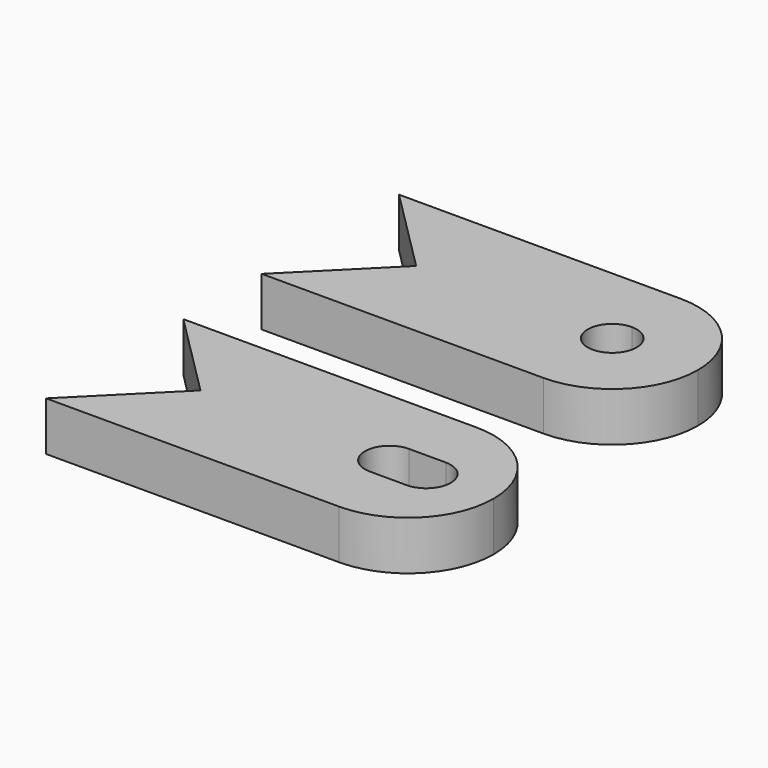
from build123d import *

# Parameters (mm, degrees)
F1_DEPTH = 25.4


with BuildPart() as f1:
    # F0 (on Top) → F1 (new body)
    with BuildSketch(Plane.XY):
        Polygon((-44.45, 88.9), (0, 44.45), (0, 88.9), align=None)
        Polygon((-44.45, 0), (0, 0), (0, 44.45), align=None)
        with BuildLine():
            Line((0, 44.45), (0, 0))
            Line((0, 0), (101.6, 0))
            ThreePointArc((101.6, 0), (57.15, 44.45), (101.6, 88.9))
            Line((101.6, 88.9), (0, 88.9))
            Line((0, 88.9), (0, 44.45))
        make_face()
        with BuildLine():
            Line((101.6, 31.75), (101.6, 0))
            ThreePointArc((101.6, 0), (133.030896, 13.019104), (146.05, 44.45))
            ThreePointArc((146.05, 44.45), (133.030896, 75.880896), (101.6, 88.9))
            Line((101.6, 88.9), (101.6, 57.15))
            ThreePointArc((101.6, 57.15), (110.580256, 53.430256), (114.3, 44.45))
            ThreePointArc((114.3, 44.45), (110.580256, 35.469744), (101.6, 31.75))
        make_face()
        with BuildLine():
            ThreePointArc((101.6, 88.9), (57.15, 44.45), (101.6, 0))
            Line((101.6, 0), (101.6, 31.75))
            ThreePointArc((101.6, 31.75), (88.9, 44.45), (101.6, 57.15))
            Line((101.6, 57.15), (101.6, 88.9))
        make_face()
        Polygon((0, -50.8), (-44.45, -50.8), (0, -95.25), align=None)
        Polygon((0, -95.25), (-44.45, -139.7), (0, -139.7), align=None)
        with BuildLine():
            Line((0, -50.8), (0, -95.25))
            Line((0, -95.25), (0, -139.7))
            Line((0, -139.7), (107.460693, -139.7))
            ThreePointArc((107.460693, -139.7), (63.010693, -95.25), (107.460693, -50.8))
            Line((107.460693, -50.8), (0, -50.8))
        make_face()
        with BuildLine():
            Line((107.460693, -82.55), (107.460693, -50.8))
            ThreePointArc((107.460693, -50.8), (63.010693, -95.25), (107.460693, -139.7))
            Line((107.460693, -139.7), (107.460693, -107.95))
            Line((107.460693, -107.95), (97.935693, -107.95))
            ThreePointArc((97.935693, -107.95), (85.235693, -95.25), (97.935693, -82.55))
            Line((97.935693, -82.55), (107.460693, -82.55))
        make_face()
        with BuildLine():
            ThreePointArc((151.910693, -95.25), (138.891589, -63.819104), (107.460693, -50.8))
            Line((107.460693, -50.8), (107.460693, -82.55))
            Line((107.460693, -82.55), (116.985693, -82.55))
            ThreePointArc((116.985693, -82.55), (129.685693, -95.25), (116.985693, -107.95))
            Line((116.985693, -107.95), (107.460693, -107.95))
            Line((107.460693, -107.95), (107.460693, -139.7))
            ThreePointArc((107.460693, -139.7), (138.891589, -126.680896), (151.910693, -95.25))
        make_face()
    extrude(amount=F1_DEPTH)


solid = f1.part
